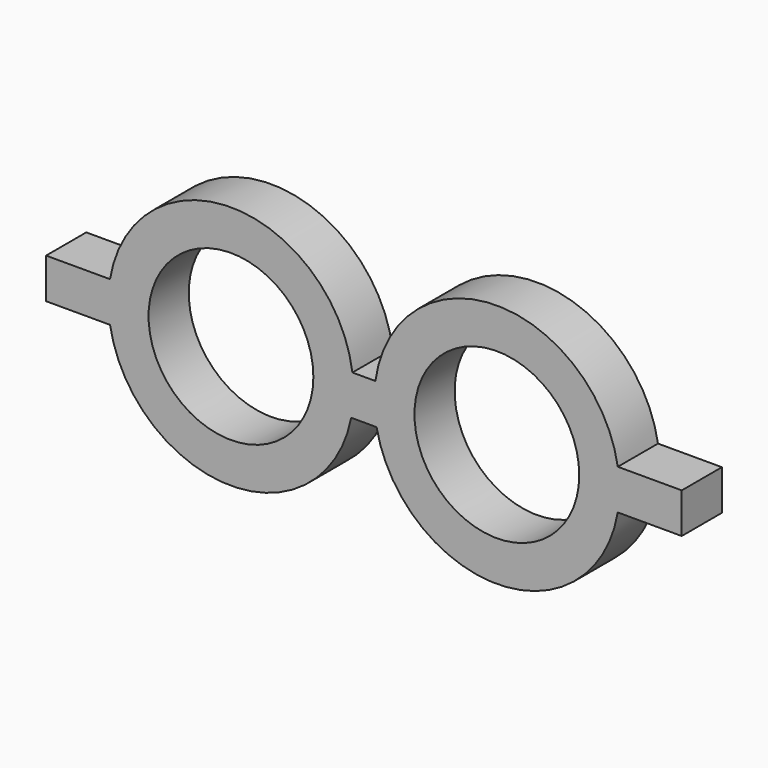
from build123d import *

# Parameters (mm, degrees)
F0_R     = 8.2
F1_DEPTH = 5


with BuildPart() as f1:
    # F0 (on Front) → F1 (new body)
    with BuildSketch(Plane.XZ):
        with BuildLine():
            Line((-18.4, -2.01903), (-12.031771, -2.01903))
            ThreePointArc((-12.031771, -2.01903), (-0.169148, -12.198827), (11.971165, -2.351854))
            Line((11.971165, -2.351854), (14.490835, -2.351854))
            ThreePointArc((14.490835, -2.351854), (26.631148, -12.198827), (38.493771, -2.01903))
            Line((38.493771, -2.01903), (44.862, -2.01903))
            Line((44.862, -2.01903), (44.862, 1.98097))
            Line((44.862, 1.98097), (38.500096, 1.98097))
            ThreePointArc((38.500096, 1.98097), (26.293716, 12.198839), (14.37384, 1.648146))
            Line((14.37384, 1.648146), (12.08816, 1.648146))
            ThreePointArc((12.08816, 1.648146), (0.168284, 12.198839), (-12.038096, 1.98097))
            Line((-12.038096, 1.98097), (-18.4, 1.98097))
            Line((-18.4, 1.98097), (-18.4, -2.01903))
        make_face()
        Circle(F0_R, mode=Mode.SUBTRACT)
        with Locations((26.462, 0)):
            Circle(F0_R, mode=Mode.SUBTRACT)
    extrude(amount=F1_DEPTH)


solid = f1.part
